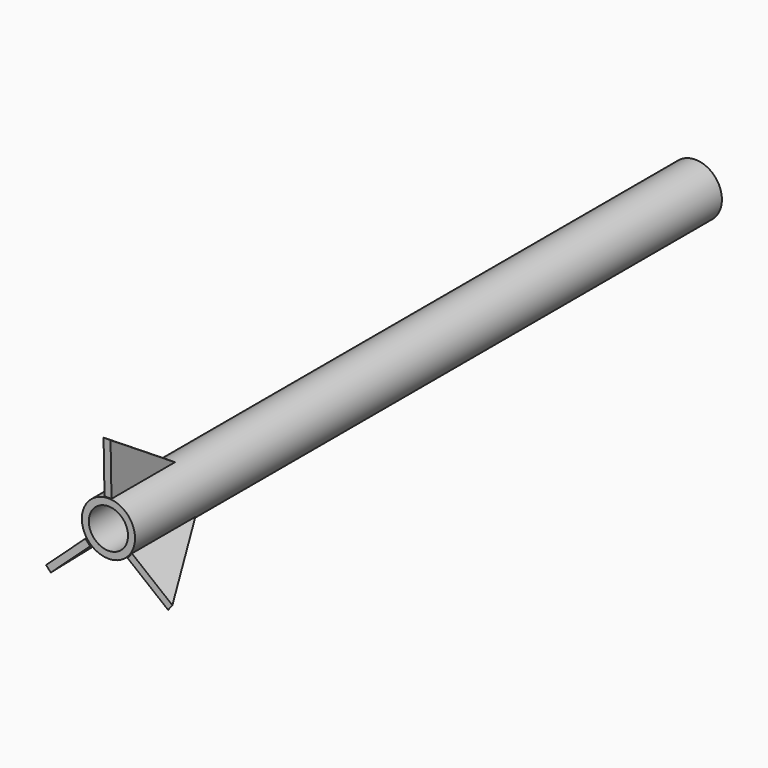
from build123d import *

# Parameters (mm, degrees)
F0_R     = 9.666254
F0_R_2   = 9.525
F1_DEPTH = 133.35
F2_R     = 7.126254
F3_DEPTH = 133.35
F5_DEPTH = 1.27
F6_ANGLE = 132.550985
F7_ANGLE = 100


with BuildPart() as f1:
    # F0 (on Front) → F1 (new body, symmetric)
    with BuildSketch(Plane.XZ):
        Circle(F0_R)
        Circle(F0_R_2, mode=Mode.SUBTRACT)
        Circle(F0_R_2)
    extrude(amount=F1_DEPTH, both=True)

    # F2 (on Front) → F3 (cut, symmetric)
    with BuildSketch(Plane.XZ):
        Circle(F2_R)
    extrude(amount=F3_DEPTH, both=True, mode=Mode.SUBTRACT)


with BuildPart() as f5:
    # F4 (on Right) → F5 (new body, symmetric)
    with BuildSketch(Plane.YZ):
        Polygon((-133.967832, 28.935406), (-133.555949, 9.988379), (-104.723513, 9.988379), align=None)
    extrude(amount=F5_DEPTH, both=True)


with BuildPart() as f6_1:
    # F6: copy of F5
    add(f5.part.rotate(Axis((0, -133.35, 0), (0, -1, 0)), F6_ANGLE))


with BuildPart() as f7_1:
    # F7: copy of F6_1
    add(f6_1.part.rotate(Axis((0, -133.35, 0), (0, -1, 0)), F7_ANGLE))


solid = Compound([f1.part, f5.part, f6_1.part, f7_1.part])
